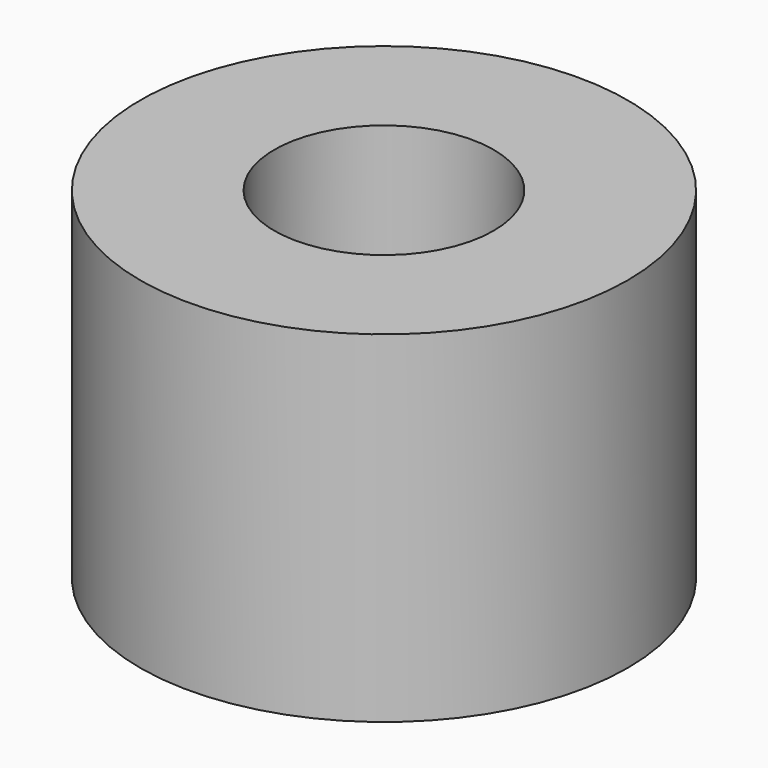
from build123d import *

# Parameters (mm, degrees)
SKETCH_R   = 5
SKETCH_R_2 = 2.25
PAD_DEPTH  = 7


with BuildPart() as part:
    # Sketch → Pad (new body)
    with BuildSketch(Plane.XY):
        Circle(SKETCH_R)
        Circle(SKETCH_R_2, mode=Mode.SUBTRACT)
    extrude(amount=PAD_DEPTH)


solid = part.part
